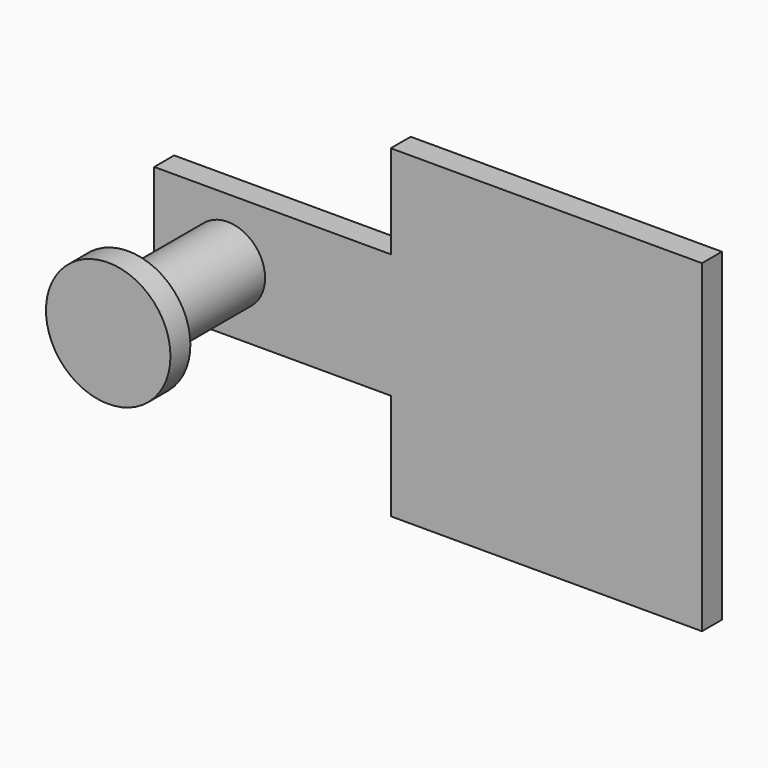
from build123d import *

# Parameters (mm, degrees)
F1_DEPTH = 2
F2_R     = 3
F3_DEPTH = 10
F4_R     = 5
F5_DEPTH = 2


with BuildPart() as f1:
    # F0 (on Front) → F1 (new body)
    with BuildSketch(Plane.XZ):
        Polygon((-13.119209, 30.910596), (-38.119209, 30.910596), (-38.119209, 23.410596), (-57.119209, 23.410596), (-57.119209, 13.410596), (-38.119209, 13.410596), (-38.119209, 4.883048), (-13.119209, 4.883048), align=None)
    extrude(amount=F1_DEPTH)

    # F2 (on face) → F3 (join)
    with BuildSketch(Plane.XZ.offset(2)):
        with Locations((-51.215012, 18.444663)):
            Circle(F2_R)
    extrude(amount=F3_DEPTH)

    # F4 (on face) → F5 (join)
    with BuildSketch(Plane.XZ.offset(12)):
        with Locations((-51.215012, 18.444663)):
            Circle(F4_R)
    extrude(amount=F5_DEPTH)


solid = f1.part
